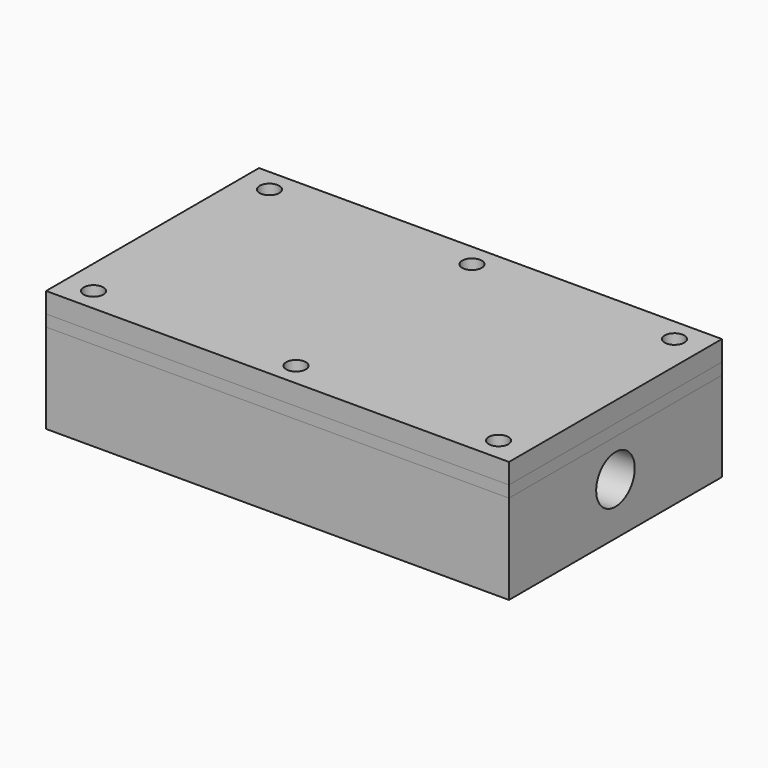
from build123d import *

# Parameters (mm, degrees)
F3_W      = 80
F3_H      = 46
F4_DEPTH  = 3.5
F5_W      = 80
F5_H      = 46
F5_W_2    = 60
F5_H_2    = 30
F6_DEPTH  = 12
F7_R      = 4.15
F7_R_2    = 8.25
F8_DEPTH  = 25
F9_R      = 9.5
F10_DEPTH = 1
F13_D     = 8.33
F15_D     = 2.5
F15_DEPTH = 6
F15_TIP   = 0.7510757738
F16_W     = 80
F16_H     = 46
F16_W_2   = 60
F16_H_2   = 30
F17_DEPTH = 2
F19_D     = 3.4
F20_W     = 80
F20_H     = 46
F21_DEPTH = 3.5
F23_D     = 3.4
F23_DEPTH = 6
F23_TIP   = 1.0214630523


with BuildPart() as f4:
    # F3 (on Top) → F4 (new body)
    with BuildSketch(Plane.XY):
        with Locations((10, 0)):
            Rectangle(F3_W, F3_H)
    extrude(amount=-F4_DEPTH)

    # F5 (on Top) → F6 (join, through all)
    with BuildSketch(Plane.XY):
        with Locations((10, 0)):
            Rectangle(F5_W, F5_H)
        with Locations((10, 0)):
            Rectangle(F5_W_2, F5_H_2, mode=Mode.SUBTRACT)
    extrude(amount=F6_DEPTH)

    # F7 (on Top) → F8 (cut)
    with BuildSketch(Plane.XY):
        with Locations((25, 0)):
            Circle(F7_R)
        Circle(F7_R_2)
    extrude(amount=-F8_DEPTH, mode=Mode.SUBTRACT)

    # F9 (on face) → F10 (cut)
    with BuildSketch(Plane(origin=(0, 0, -3.5), x_dir=(1, 0, 0), z_dir=(0, 0, -1))):
        Circle(F9_R)
    extrude(amount=-F10_DEPTH, mode=Mode.SUBTRACT)

    # F13 (through all)
    with Locations(Plane.YZ.offset(50)):
        with Locations((0, 5.5)):
            Hole(F13_D / 2)

    # F15
    with Locations(Plane.XY.offset(12)):
        with Locations((-25, 19), (-25, -19), (10, -19), (45, -19), (45, 19), (10, 19)):
            Hole(F15_D / 2, depth=F15_DEPTH)
            with Locations((0, 0, -(F15_DEPTH + F15_TIP / 2))):  # 118° drill point
                Cone(0, F15_D / 2, F15_TIP, mode=Mode.SUBTRACT)


with BuildPart() as f17:
    # F16 (on offset) → F17 (new body)
    with BuildSketch(Plane.XY.offset(12)):
        with Locations((10, 0)):
            Rectangle(F16_W, F16_H)
        with Locations((10, 0)):
            Rectangle(F16_W_2, F16_H_2, mode=Mode.SUBTRACT)
    extrude(amount=F17_DEPTH)

    # F19 (through all)
    with Locations(Plane.XY.offset(14)):
        with Locations((-25, -19), (10, -19), (45, -19), (45, 19), (10, 19), (-25, 19)):
            Hole(F19_D / 2)


with BuildPart() as f21:
    # F20 (on face) → F21 (new body)
    with BuildSketch(Plane.XY.offset(14)):
        with Locations((10, 0)):
            Rectangle(F20_W, F20_H)
    extrude(amount=F21_DEPTH)

    # F23
    with Locations(Plane.XY.offset(17.5)):
        with Locations((45, -19), (45, 19), (10, 19), (-25, 19), (-25, -19), (10, -19)):
            Hole(F23_D / 2, depth=F23_DEPTH)
            with Locations((0, 0, -(F23_DEPTH + F23_TIP / 2))):  # 118° drill point
                Cone(0, F23_D / 2, F23_TIP, mode=Mode.SUBTRACT)


solid = Compound([f4.part, f17.part, f21.part])
